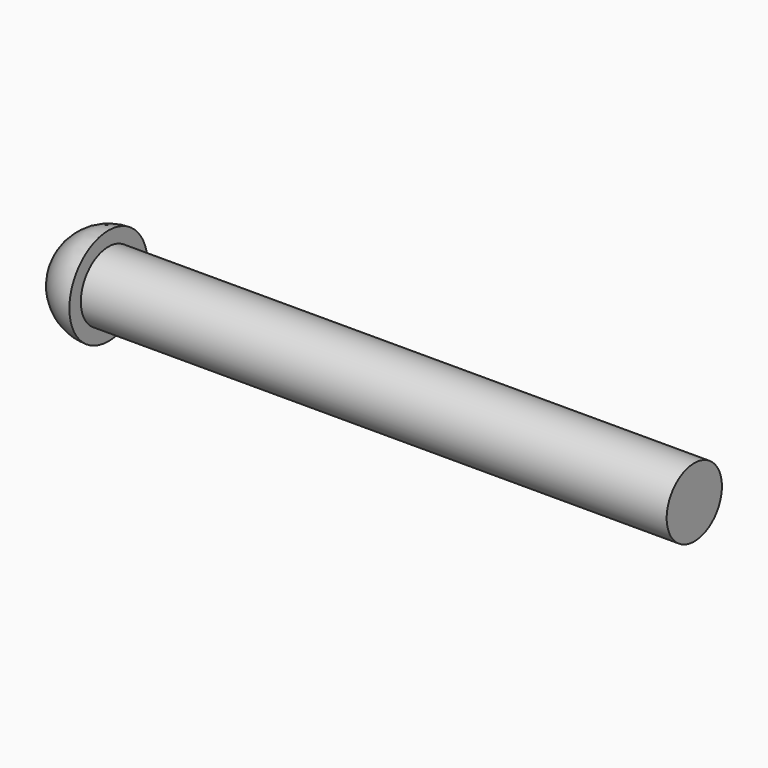
from build123d import *

# Parameters (mm, degrees)
F0_R     = 2.475
F1_DEPTH = 42
F3_ANGLE = 180


with BuildPart() as f1:
    # F0 (on Right) → F1 (new body)
    with BuildSketch(Plane.YZ):
        Circle(F0_R)
    extrude(amount=F1_DEPTH)

    # F2 (on face) → F3 (revolve)
    with BuildSketch(Plane(origin=(0, 0, 0), x_dir=(0, -1, 0), z_dir=(-1, 0, 0))):
        with BuildLine():
            ThreePointArc((-3.5, 0), (0, -3.5), (3.5, 0))
            Line((3.5, 0), (2.475, 0))
            ThreePointArc((2.475, 0), (0, -2.475), (-2.475, 0))
            Line((-2.475, 0), (-3.5, 0))
        make_face()
        with BuildLine():
            ThreePointArc((-2.475, 0), (0, -2.475), (2.475, 0))
            Line((2.475, 0), (-2.475, 0))
        make_face()
    revolve(axis=Axis((0, 0, 0), (0, 1, 0)), revolution_arc=F3_ANGLE)


solid = f1.part
